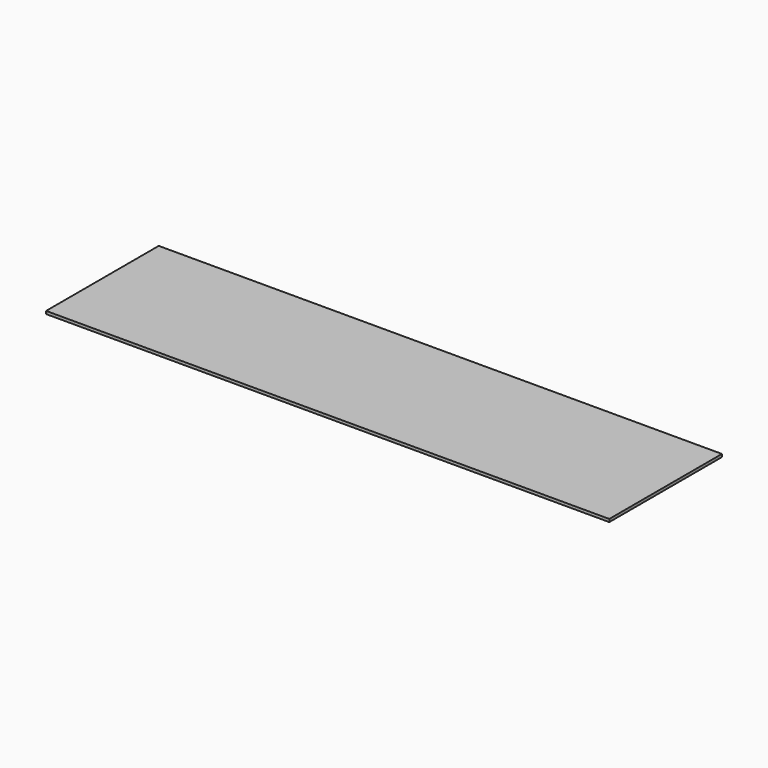
from build123d import *

# Parameters (mm, degrees)
SKETCH002_W = 200
SKETCH002_H = 50
PAD_DEPTH   = 1


with BuildPart() as part:
    # Sketch002 → Pad (new body)
    with BuildSketch(Plane.XY):
        with Locations((100, -25)):
            Rectangle(SKETCH002_W, SKETCH002_H)
    extrude(amount=-PAD_DEPTH)


solid = part.part
